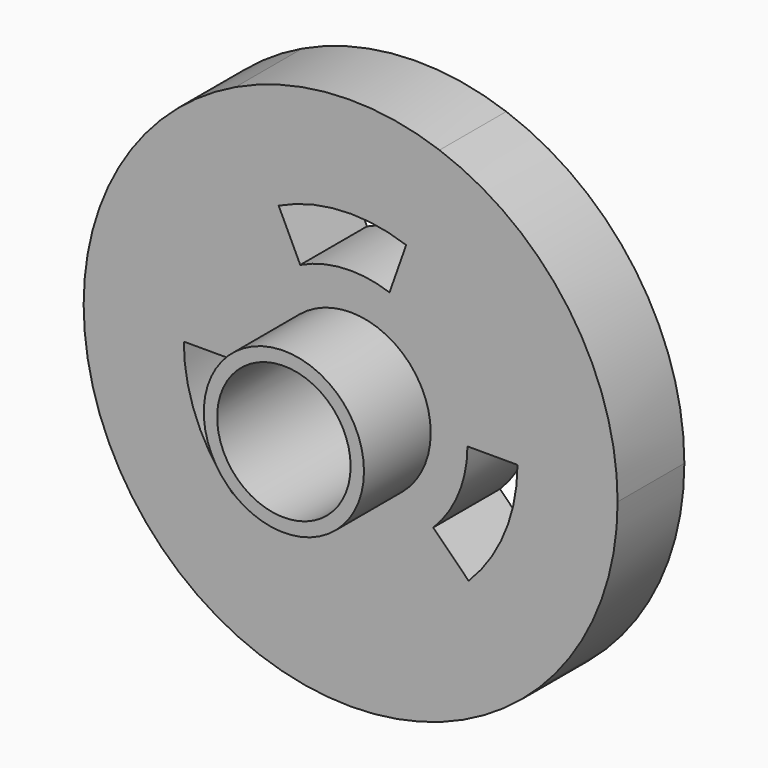
from build123d import *

# Parameters (mm, degrees)
F1_DEPTH = 25
F2_R     = 24
F2_R_2   = 20
F3_DEPTH = 50


with BuildPart() as f1:
    # F0 (on Front) → F1 (new body)
    with BuildSketch(Plane.XZ):
        with BuildLine():
            Line((80, 0), (50, 0))
            ThreePointArc((50, 0), (46.1939766256, -19.1341716183), (35.3553390593, -35.3553390593))
            Line((35.3553390593, -35.3553390593), (56.5685424949, -56.5685424949))
            ThreePointArc((56.5685424949, -56.5685424949), (73.9103626009, -30.6146745892), (80, 0))
        make_face()
        with BuildLine():
            ThreePointArc((16.6460447835, 47.1477379422), (40.8185144216, 28.8764416162), (50, 0))
            Line((50, 0), (80, 0))
            ThreePointArc((80, 0), (65.3096230746, 46.2023065859), (26.6336716536, 75.4363807075))
            Line((26.6336716536, 75.4363807075), (16.6460447835, 47.1477379422))
        make_face()
        with BuildLine():
            ThreePointArc((-21.5679540702, 45.1090163629), (-2.6637181112, 49.928995642), (16.6460447835, 47.1477379422))
            Line((16.6460447835, 47.1477379422), (26.6336716536, 75.4363807075))
            ThreePointArc((26.6336716536, 75.4363807075), (-4.261948978, 79.8863930273), (-34.5087265123, 72.1744261806))
            Line((-34.5087265123, 72.1744261806), (-21.5679540702, 45.1090163629))
        make_face()
        with BuildLine():
            Line((56.5685424949, -56.5685424949), (35.3553390593, -35.3553390593))
            ThreePointArc((35.3553390593, -35.3553390593), (0, -50), (-35.3553390593, -35.3553390593))
            Line((-35.3553390593, -35.3553390593), (-56.5685424949, -56.5685424949))
            ThreePointArc((-56.5685424949, -56.5685424949), (0, -80), (56.5685424949, -56.5685424949))
        make_face()
        with BuildLine():
            ThreePointArc((-50, 0), (-42.2989225839, 26.6608542295), (-21.5679540702, 45.1090163629))
            Line((-21.5679540702, 45.1090163629), (-34.5087265123, 72.1744261806))
            ThreePointArc((-34.5087265123, 72.1744261806), (-67.6782761342, 42.6573667672), (-80, 0))
            Line((-80, 0), (-50, 0))
        make_face()
        with BuildLine():
            Line((-56.5685424949, -56.5685424949), (-35.3553390593, -35.3553390593))
            ThreePointArc((-35.3553390593, -35.3553390593), (-46.1939766256, -19.1341716183), (-50, 0))
            Line((-50, 0), (-80, 0))
            ThreePointArc((-80, 0), (-73.9103626009, -30.6146745892), (-56.5685424949, -56.5685424949))
        make_face()
        with BuildLine():
            Line((35, 0), (50, 0))
            ThreePointArc((50, 0), (40.8185144216, 28.8764416162), (16.6460447835, 47.1477379422))
            Line((16.6460447835, 47.1477379422), (11.6522313484, 33.0034165595))
            ThreePointArc((11.6522313484, 33.0034165595), (28.5729600951, 20.2135091313), (35, 0))
        make_face()
        with BuildLine():
            Line((-15.0975678491, 31.576311454), (-21.5679540702, 45.1090163629))
            ThreePointArc((-21.5679540702, 45.1090163629), (-42.2989225839, 26.6608542295), (-50, 0))
            Line((-50, 0), (-35, 0))
            ThreePointArc((-35, 0), (-29.6092458087, 18.6625979606), (-15.0975678491, 31.576311454))
        make_face()
        with BuildLine():
            ThreePointArc((-35.3553390593, -35.3553390593), (0, -50), (35.3553390593, -35.3553390593))
            Line((35.3553390593, -35.3553390593), (24.7487373415, -24.7487373415))
            ThreePointArc((24.7487373415, -24.7487373415), (0, -35), (-24.7487373415, -24.7487373415))
            Line((-24.7487373415, -24.7487373415), (-35.3553390593, -35.3553390593))
        make_face()
        with BuildLine():
            Line((-10.3526179537, 21.6523278542), (-15.0975678491, 31.576311454))
            ThreePointArc((-15.0975678491, 31.576311454), (-29.6092458087, 18.6625979606), (-35, 0))
            Line((-35, 0), (-24, 0))
            ThreePointArc((-24, 0), (-20.3034828403, 12.7972100301), (-10.3526179537, 21.6523278542))
        make_face()
        with BuildLine():
            Line((7.9901014961, 22.6309142123), (11.6522313484, 33.0034165595))
            ThreePointArc((11.6522313484, 33.0034165595), (-1.8646026779, 34.9502969494), (-15.0975678491, 31.576311454))
            Line((-15.0975678491, 31.576311454), (-10.3526179537, 21.6523278542))
            ThreePointArc((-10.3526179537, 21.6523278542), (-1.2785846934, 23.9659179082), (7.9901014961, 22.6309142123))
        make_face()
        with BuildLine():
            Line((24, 0), (35, 0))
            ThreePointArc((35, 0), (28.5729600951, 20.2135091313), (11.6522313484, 33.0034165595))
            Line((11.6522313484, 33.0034165595), (7.9901014961, 22.6309142123))
            ThreePointArc((7.9901014961, 22.6309142123), (19.5928869224, 13.8606919758), (24, 0))
        make_face()
        with BuildLine():
            ThreePointArc((24.7487373415, -24.7487373415), (32.3357836379, -13.3939201328), (35, 0))
            Line((35, 0), (24, 0))
            ThreePointArc((24, 0), (22.1731087803, -9.1844023768), (16.9705627485, -16.9705627485))
            Line((16.9705627485, -16.9705627485), (24.7487373415, -24.7487373415))
        make_face()
        with BuildLine():
            ThreePointArc((-24.7487373415, -24.7487373415), (0, -35), (24.7487373415, -24.7487373415))
            Line((24.7487373415, -24.7487373415), (16.9705627485, -16.9705627485))
            ThreePointArc((16.9705627485, -16.9705627485), (0, -24), (-16.9705627485, -16.9705627485))
            Line((-16.9705627485, -16.9705627485), (-24.7487373415, -24.7487373415))
        make_face()
        with BuildLine():
            ThreePointArc((-35, 0), (-32.3357836379, -13.3939201328), (-24.7487373415, -24.7487373415))
            Line((-24.7487373415, -24.7487373415), (-16.9705627485, -16.9705627485))
            ThreePointArc((-16.9705627485, -16.9705627485), (-22.1731087803, -9.1844023768), (-24, 0))
            Line((-24, 0), (-35, 0))
        make_face()
    extrude(amount=F1_DEPTH)

    # F2 (on Front) → F3 (join)
    with BuildSketch(Plane.XZ):
        Circle(F2_R)
        Circle(F2_R_2, mode=Mode.SUBTRACT)
    extrude(amount=F3_DEPTH)


solid = f1.part
